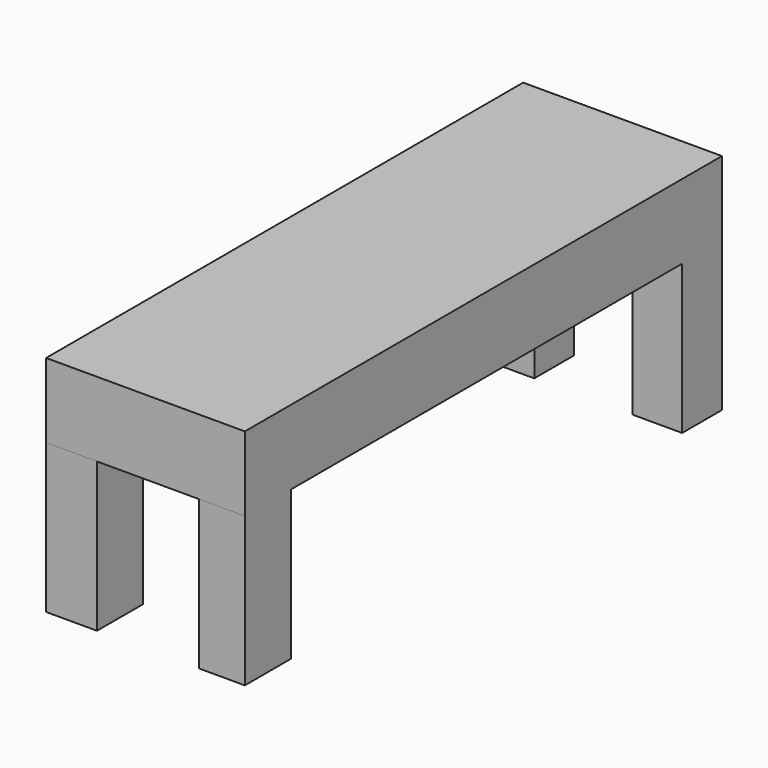
from build123d import *

# Parameters (mm, degrees)
F0_W     = 20
F0_H     = 60
F1_DEPTH = 7.5
F2_W     = 5.122859
F2_H     = 5.811491
F2_W_2   = 4.621518
F2_W_3   = 5
F2_H_2   = 5
F3_DEPTH = 15


with BuildPart() as f1:
    # F0 (on Top) → F1 (new body)
    with BuildSketch(Plane.XY):
        with Locations((4.877141, 11.942423)):
            Rectangle(F0_W, F0_H)
    extrude(amount=F1_DEPTH)

    # F2 (on face) → F3 (join)
    with BuildSketch(Plane(origin=(0, 0, 0), x_dir=(1, 0, 0), z_dir=(0, 0, -1))):
        with Locations((-2.56143, 15.151832)):
            Rectangle(F2_W, F2_H)
        with Locations((12.566382, 15.151832)):
            Rectangle(F2_W_2, F2_H)
        with Locations((12.377141, -39.442423)):
            Rectangle(F2_W_3, F2_H_2)
        with Locations((-2.56143, -39.442423)):
            Rectangle(F2_W, F2_H_2)
    extrude(amount=F3_DEPTH)


solid = f1.part
